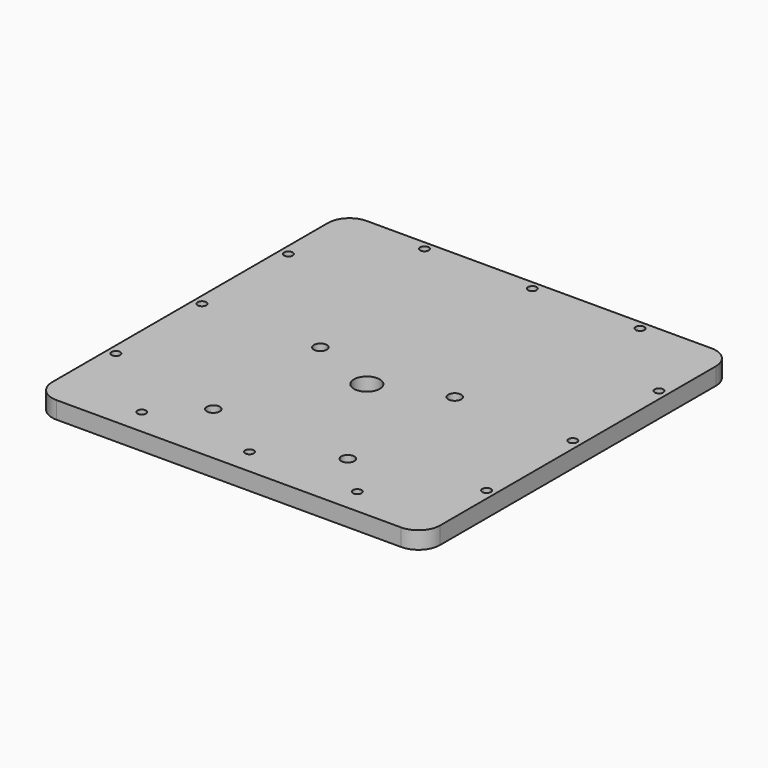
from build123d import *

# Parameters (mm, degrees)
F0_W     = 90
F0_H     = 90
F0_R     = 1.5
F0_R_2   = 3
F1_DEPTH = 4
F2_R     = 5
F4_D     = 2
F4_DEPTH = 6


with BuildPart() as f1:
    # F0 (on Top) → F1 (new body)
    with BuildSketch(Plane.XY):
        Rectangle(F0_W, F0_H)
        with Locations((-15.597129, -30)):
            Circle(F0_R, mode=Mode.SUBTRACT)
        with Locations((15.597129, -30)):
            Circle(F0_R, mode=Mode.SUBTRACT)
        with Locations((0, -4.969076)):
            Circle(F0_R_2, mode=Mode.SUBTRACT)
        with Locations((-15.597129, 1.030924)):
            Circle(F0_R, mode=Mode.SUBTRACT)
        with Locations((15.597129, 1.030924)):
            Circle(F0_R, mode=Mode.SUBTRACT)
    extrude(amount=F1_DEPTH)

    # F2
    f2_edges = [f1.edges().sort_by_distance(p)[0] for p in [
        (-45, -45, 2),
        (45, -45, 2),
        (45, 45, 2),
        (-45, 45, 2),
    ]]
    fillet(f2_edges, radius=F2_R)

    # F4
    with Locations(Plane.XY.offset(4)):
        with Locations((-25, 43), (-43, 26), (-43, 1), (-43, -24), (-25, -39), (0, -39), (25, -39), (43, -24), (43, 1), (43, 26), (25, 43), (0, 43)):
            Hole(F4_D / 2, depth=F4_DEPTH)


solid = f1.part
